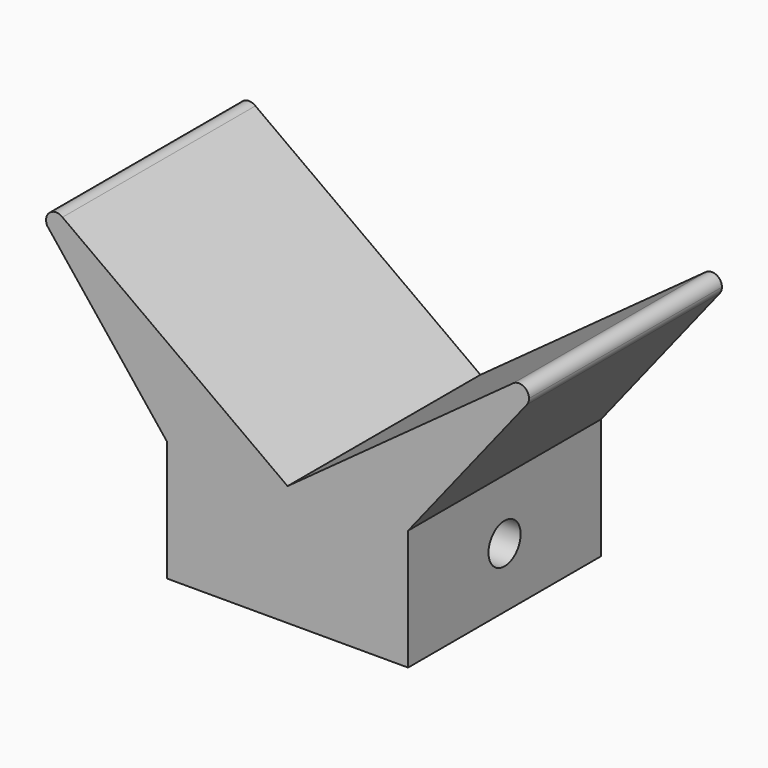
from build123d import *

# Parameters (mm, degrees)
F1_DEPTH = 76.2
F4_D     = 12.7


with BuildPart() as f1:
    # F0 (on Front) → F1 (new body)
    with BuildSketch(Plane.XZ):
        with BuildLine():
            Line((0, 38.1), (0, 0))
            Line((0, 0), (38.1, 0))
            Line((38.1, 0), (38.1, 38.1))
            Line((38.1, 38.1), (-33.0133717304, 89.766888872))
            ThreePointArc((-33.0133717304, 89.766888872), (-32.1573332755, 88.6700449077), (-31.8524720916, 87.3125))
            ThreePointArc((-31.8524720916, 87.3125), (-33.7684889393, 84.3977810732), (-37.2040225938, 85.0009522693))
            Line((-37.2040225938, 85.0009522693), (0, 38.1))
        make_face()
        with BuildLine():
            Line((38.1, 38.1), (38.1, 0))
            Line((38.1, 0), (76.2, 0))
            Line((76.2, 0), (76.2, 38.1))
            Line((76.2, 38.1), (113.7229316851, 85.3376802764))
            ThreePointArc((113.7229316851, 85.3376802764), (108.9440575127, 85.1161783074), (109.3706097182, 89.8811289571))
            Line((109.3706097182, 89.8811289571), (38.1, 38.1))
        make_face()
        with BuildLine():
            ThreePointArc((114.4118278942, 87.3125), (112.6782477309, 90.1414457143), (109.3706097182, 89.8811289571))
            ThreePointArc((109.3706097182, 89.8811289571), (108.9440575127, 85.1161783074), (113.7229316851, 85.3376802764))
            ThreePointArc((113.7229316851, 85.3376802764), (114.2346608229, 86.2667358144), (114.4118278942, 87.3125))
        make_face()
        with BuildLine():
            Line((-37.7736799419, 85.7190862298), (-37.2040225938, 85.0009522693))
            ThreePointArc((-37.2040225938, 85.0009522693), (-33.7684889393, 84.3977810732), (-31.8524720916, 87.3125))
            ThreePointArc((-31.8524720916, 87.3125), (-32.1573332755, 88.6700449077), (-33.0133717304, 89.766888872))
            ThreePointArc((-33.0133717304, 89.766888872), (-37.084210262, 89.7312709893), (-37.7736799419, 85.7190862298))
        make_face()
    extrude(amount=F1_DEPTH)

    # F4 (through all)
    with Locations(Plane.YZ.offset(101.6)):
        with Locations((-38.1, 19.05)):
            Hole(F4_D / 2)


solid = f1.part
